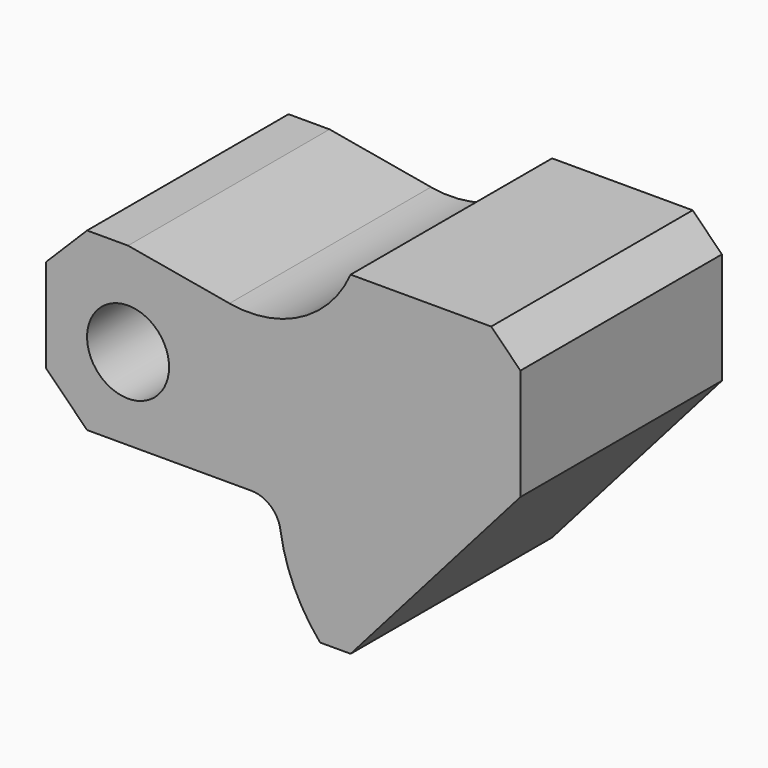
from build123d import *

# Parameters (mm, degrees)
F0_R     = 7
F1_DEPTH = 43


with BuildPart() as f1:
    # F0 (on Front) → F1 (new body)
    with BuildSketch(Plane.XZ):
        with BuildLine():
            Line((40.5, 23.5), (35.5, 28.5))
            Line((35.5, 28.5), (11.5, 28.5))
            ThreePointArc((11.5, 28.5), (3.06535, 19.400493), (-9.187381, 17.447318))
            Line((-9.187381, 17.447318), (-26.5, 20.5))
            Line((-26.5, 20.5), (-33.5, 20.5))
            Line((-33.5, 20.5), (-40.5, 13.5))
            Line((-40.5, 13.5), (-40.5, -2.5))
            Line((-40.5, -2.5), (-33.5, -9.5))
            Line((-33.5, -9.5), (-5.433374, -9.5))
            ThreePointArc((-5.433374, -9.5), (-2.168138, -10.713414), (-0.487735, -13.764706))
            ThreePointArc((-0.487735, -13.764706), (1.849095, -21.615672), (6.288067, -28.5))
            Line((6.288067, -28.5), (11.5, -28.5))
            Line((11.5, -28.5), (40.5, 4.5))
            Line((40.5, 4.5), (40.5, 23.5))
        make_face()
        with Locations((-26.5, 4.5)):
            Circle(F0_R, mode=Mode.SUBTRACT)
    extrude(amount=-F1_DEPTH)


solid = f1.part
